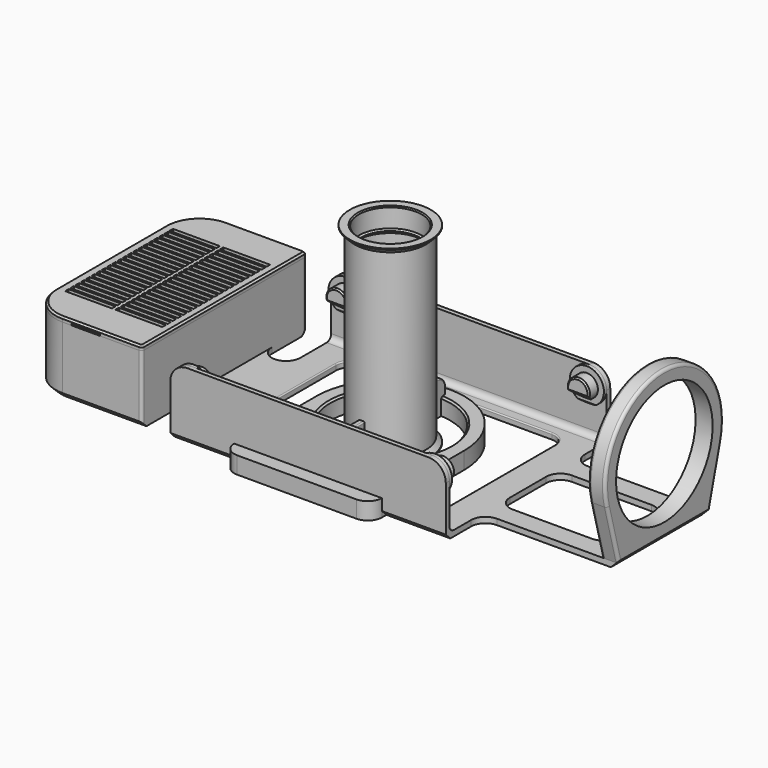
from build123d import *

# Parameters (mm, degrees)
PAD_DEPTH            = 2
PAD001_DEPTH         = 1.6
PAD002_DEPTH         = 1.6
FILLET_R             = 2
SKETCH004_R          = 6
PAD003_DEPTH         = 1.2
SKETCH006_R          = 6
PAD005_DEPTH         = 1.2
SKETCH005_R          = 3.9
PAD004_DEPTH         = 4
SKETCH007_R          = 3.9
PAD006_DEPTH         = 4
CHAMFER_SIZE         = 0.5
POCKET_DEPTH         = 98.501
POCKET_DEPTH_BACK    = 96.501
PAD007_DEPTH         = 24
SKETCH010_W          = 10
SKETCH010_H          = 0.5
SKETCH010_W_2        = 0.5
SKETCH010_H_2        = 10
POCKET001_DEPTH      = 2
SKETCH014_R          = 21.25
PAD010_DEPTH         = 6
FILLET007_R          = 1
POCKET002_DEPTH      = 36.201
POCKET002_DEPTH_BACK = 36.201
SKETCH013_W          = 2
SKETCH013_H          = 46.4
PAD009_DEPTH         = 10
FILLET002_R          = 4
FILLET003_R          = 0.4
CHAMFER003_SIZE      = 2
FILLET004_R          = 1
CHAMFER004_SIZE      = 0.4
PAD011_DEPTH         = 3
SKETCH020_W          = 0.8
SKETCH020_H          = 10.4
SKETCH020_W_2        = 10.4
SKETCH020_H_2        = 0.8
SKETCH020_H_3        = 10.565686
SKETCH020_W_3        = 10
PAD012_DEPTH         = 1.4
CHAMFER005_SIZE      = 0.69
PAD013_DEPTH         = 1.6
SKETCH023_W          = 1.4
SKETCH023_H          = 10.4
SKETCH023_W_2        = 10.4
SKETCH023_H_2        = 1.4
SKETCH023_W_3        = 10
POCKET004_DEPTH      = 0.6
FILLET006_R          = 1
CHAMFER006_SIZE      = 0.6
SKETCH022_W          = 16.5
SKETCH022_H          = 1.5
POCKET003_DEPTH      = 1.6
LINEARPATTERN_COUNT  = 21
LINEARPATTERN_PITCH  = 2.3
SKETCH025_R          = 21.15
PAD014_DEPTH         = 6
CHAMFER007_SIZE      = 0.6


with BuildPart() as base:
    # Sketch001 → Pad (new body)
    with BuildSketch(Plane.XY):
        with BuildLine():
            ThreePointArc((-58.5, 21), (-53.5, 16), (-48.5, 21))
            Line((-48.5, 21), (-48.5, 36.2))
            Line((-48.5, 36.2), (48.5, 36.2))
            Line((48.5, 36.2), (48.5, 25))
            ThreePointArc((48.5, 25), (49.964466, 21.464466), (53.5, 20))
            Line((53.5, 20), (96.5, 20))
            Line((96.5, 20), (96.5, -20))
            Line((96.5, -20), (53.5, -20))
            ThreePointArc((53.5, -20), (49.964466, -21.464466), (48.5, -25))
            Line((48.5, -25), (48.5, -36.2))
            Line((48.5, -36.2), (-48.5, -36.2))
            Line((-48.5, -36.2), (-48.5, -21))
            ThreePointArc((-48.5, -21), (-53.5, -16.000007), (-58.5, -21))
            Line((-58.5, -21), (-58.5, -36.2))
            Line((-58.5, -36.2), (-86.5, -36.2))
            ThreePointArc((-98.5, -24.2), (-94.985281, -32.685281), (-86.5, -36.2))
            Line((-98.5, -24.2), (-98.5, 24.2))
            ThreePointArc((-86.5, 36.2), (-94.985281, 32.685281), (-98.5, 24.2))
            Line((-86.5, 36.2), (-58.5, 36.2))
            Line((-58.5, 36.2), (-58.5, 21))
        make_face()
        with BuildLine():
            ThreePointArc((38.5, 24.2), (37.035534, 27.735534), (33.5, 29.2))
            Line((6, 29.2), (33.5, 29.2))
            ThreePointArc((6, 29.2), (2.464466, 27.735534), (1, 24.2))
            Line((1, -24.2), (1, 24.2))
            ThreePointArc((1, -24.2), (2.464466, -27.735534), (6, -29.2))
            Line((33.5, -29.2), (6, -29.2))
            ThreePointArc((33.5, -29.2), (37.035534, -27.735534), (38.5, -24.2))
            Line((38.5, 24.2), (38.5, -24.2))
        make_face(mode=Mode.SUBTRACT)
        with BuildLine():
            ThreePointArc((-1, 24.2), (-2.464466, 27.735534), (-6, 29.2))
            Line((-33.5, 29.2), (-6, 29.2))
            ThreePointArc((-33.5, 29.2), (-37.035534, 27.735534), (-38.5, 24.2))
            Line((-38.5, -24.2), (-38.5, 24.2))
            ThreePointArc((-38.5, -24.2), (-37.035534, -27.735534), (-33.5, -29.2))
            Line((-6, -29.2), (-33.5, -29.2))
            ThreePointArc((-6, -29.2), (-2.464466, -27.735534), (-1, -24.2))
            Line((-1, 24.2), (-1, -24.2))
        make_face(mode=Mode.SUBTRACT)
        with BuildLine():
            ThreePointArc((53.5, 13), (49.964466, 11.535534), (48.5, 8))
            Line((48.5, -8), (48.5, 8))
            ThreePointArc((48.5, -8), (49.964466, -11.535534), (53.5, -13))
            Line((81.5, -13), (53.5, -13))
            ThreePointArc((81.5, -13), (85.035534, -11.535534), (86.5, -8))
            Line((86.5, 8), (86.5, -8))
            ThreePointArc((86.5, 8), (85.035534, 11.535534), (81.5, 13))
            Line((53.5, 13), (81.5, 13))
        make_face(mode=Mode.SUBTRACT)
    extrude(amount=PAD_DEPTH)

    # Sketch002 (on DatumPlane) → Pad001 (join)
    with BuildSketch(Plane(origin=(-48.5, 36.2, 0), x_dir=(1, 0, 0), z_dir=(0, -1, 0))):
        with BuildLine():
            Line((0, 18), (0, 0))
            Line((0, 0), (97, 0))
            Line((97, 0), (97, 18))
            ThreePointArc((97, 18), (95.242641, 22.242641), (91, 24))
            Line((91, 24), (6, 24))
            ThreePointArc((6, 24), (1.757359, 22.242641), (0, 18))
        make_face()
    extrude(amount=PAD001_DEPTH)

    # Sketch003 (on DatumPlane) → Pad002 (join)
    with BuildSketch(Plane(origin=(-48.5, -36.2, 0), x_dir=(-1, 0, 0), z_dir=(0, 1, 0))):
        with BuildLine():
            Line((-97, 18), (-97, 0))
            Line((-97, 0), (0, 0))
            Line((0, 0), (0, 18))
            ThreePointArc((0, 18), (-1.757359, 22.242641), (-6, 24))
            Line((-6, 24), (-91, 24))
            ThreePointArc((-91, 24), (-95.242641, 22.242641), (-97, 18))
        make_face()
    extrude(amount=PAD002_DEPTH)

    # Fillet
    fillet_edges = [base.edges().sort_by_distance(p)[0] for p in [
        (0, -34.6, 2),
        (0, 34.6, 2),
    ]]
    fillet(fillet_edges, radius=FILLET_R)

    # Sketch004 (on DatumPlane) → Pad003 (join)
    with BuildSketch(Plane(origin=(-48.5, 34.6, 0), x_dir=(1, 0, 0), z_dir=(0, -1, 0))):
        with Locations((6, 18)):
            Circle(SKETCH004_R)
        with Locations((91, 18)):
            Circle(SKETCH004_R)
    extrude(amount=PAD003_DEPTH)

    # Sketch006 (on DatumPlane) → Pad005 (join)
    with BuildSketch(Plane(origin=(-48.5, -34.6, 0), x_dir=(-1, 0, 0), z_dir=(0, 1, 0))):
        with Locations((-91, 18)):
            Circle(SKETCH006_R)
        with Locations((-6, 18)):
            Circle(SKETCH006_R)
    extrude(amount=PAD005_DEPTH)

    # Sketch005 (on DatumPlane) → Pad004 (join)
    with BuildSketch(Plane(origin=(-48.5, 33.4, 0), x_dir=(1, 0, 0), z_dir=(0, -1, 0))):
        with Locations((6, 18)):
            Circle(SKETCH005_R)
        with Locations((91, 18)):
            Circle(SKETCH005_R)
    extrude(amount=PAD004_DEPTH)

    # Sketch007 (on DatumPlane) → Pad006 (join)
    with BuildSketch(Plane(origin=(-48.5, -33.4, 0), x_dir=(-1, 0, 0), z_dir=(0, 1, 0))):
        with Locations((-91, 18)):
            Circle(SKETCH007_R)
        with Locations((-6, 18)):
            Circle(SKETCH007_R)
    extrude(amount=PAD006_DEPTH)

    # Chamfer
    chamfer_edges = [base.edges().sort_by_distance(p)[0] for p in [
        (-46.4, 29.4, 18),
        (38.6, 29.4, 18),
        (46.4, -29.4, 18),
        (-38.6, -29.4, 18),
    ]]
    chamfer(chamfer_edges, length=CHAMFER_SIZE)

    # Sketch008 → Pocket (cut, two sides)
    with BuildSketch(Plane.YZ) as pocket_sk:
        Polygon((-33.4, 12.92301), (-34.5, 12), (-33.4, 12), align=None)
        Polygon((33.4, 12.92301), (33.4, 12), (34.5, 12), align=None)
        Polygon((-33.3, 14.1), (-24.004322, 14.1), (-24.004322, 21.9), align=None)
        Polygon((33.3, 14.1), (24.004322, 14.1), (24.004322, 21.9), align=None)
    extrude(amount=-POCKET_DEPTH, mode=Mode.SUBTRACT)
    extrude(pocket_sk.sketch, amount=POCKET_DEPTH_BACK, mode=Mode.SUBTRACT)

    # Sketch009 → Pad007 (join)
    with BuildSketch(Plane.XY):
        with BuildLine():
            ThreePointArc((-86.5, 36.2), (-94.985281, 32.685281), (-98.5, 24.2))
            Line((-98.5, -24.2), (-98.5, 24.2))
            ThreePointArc((-98.5, -24.2), (-94.985281, -32.685281), (-86.5, -36.2))
            Line((-58.5, -36.2), (-86.5, -36.2))
            Line((-58.5, 36.2), (-58.5, -36.2))
            Line((-86.5, 36.2), (-58.5, 36.2))
        make_face()
        with BuildLine():
            ThreePointArc((-86.5, 35), (-94.136753, 31.836753), (-97.3, 24.2))
            Line((-97.3, 24.2), (-97.3, -24.2))
            ThreePointArc((-97.3, -24.2), (-94.136753, -31.836753), (-86.5, -35))
            Line((-86.5, -35), (-59.7, -35))
            Line((-59.7, -35), (-59.7, 35))
            Line((-86.5, 35), (-59.7, 35))
        make_face(mode=Mode.SUBTRACT)
    extrude(amount=PAD007_DEPTH)

    # Sketch010 → Pocket001 (cut)
    with BuildSketch(Plane.XY.offset(23)):
        with Locations((-78.5, 35.25)):
            Rectangle(SKETCH010_W, SKETCH010_H)
        with Locations((-59.45, 0)):
            Rectangle(SKETCH010_W_2, SKETCH010_H_2)
        with Locations((-78.5, -35.25)):
            Rectangle(SKETCH010_W, SKETCH010_H)
        with Locations((-97.55, 0)):
            Rectangle(SKETCH010_W_2, SKETCH010_H_2)
    extrude(amount=-POCKET001_DEPTH, mode=Mode.SUBTRACT)

    # Sketch014 (on DatumPlane) → Pad010 (join)
    with BuildSketch(Plane(origin=(96.5, 0, 0), x_dir=(0, -1, 0), z_dir=(-1, 0, 0))):
        with BuildLine():
            Line((-20, 2), (20, 2))
            Line((20, 2), (25.130112, 21.330855))
            ThreePointArc((25.130112, 21.330855), (0, 54), (-25.130112, 21.330855))
            Line((-20, 2), (-25.130112, 21.330855))
        make_face()
        with Locations((0, 28)):
            Circle(SKETCH014_R, mode=Mode.SUBTRACT)
    extrude(amount=PAD010_DEPTH)

    # Fillet007
    fillet007_edges = [base.edges().sort_by_distance(p)[0] for p in [
        (96.5, 0, 54),
        (90.5, 0, 54),
        (96.5, 20, 1),
        (96.5, -20, 1),
    ]]
    fillet(fillet007_edges, radius=FILLET007_R)

    # Sketch015 → Pocket002 (cut, two sides)
    with BuildSketch(Plane.XZ) as pocket002_sk:
        Polygon((96.5, 0), (96.5, 2.828427), (93.671573, 0), align=None)
    extrude(amount=-POCKET002_DEPTH, mode=Mode.SUBTRACT)
    extrude(pocket002_sk.sketch, amount=POCKET002_DEPTH_BACK, mode=Mode.SUBTRACT)

    # Sketch013 → Pad009 (join)
    with BuildSketch(Plane.XY.offset(2)):
        Rectangle(SKETCH013_W, SKETCH013_H)
    extrude(amount=PAD009_DEPTH)

    # Fillet002
    fillet002_edges = [base.edges().sort_by_distance(p)[0] for p in [
        (0, -23.2, 2),
        (0, -23.2, 12),
        (0, 23.2, 12),
        (0, 23.2, 2),
    ]]
    fillet(fillet002_edges, radius=FILLET002_R)

    # Fillet003
    fillet003_edges = [base.edges().sort_by_distance(p)[0] for p in [
        (-1, 0, 12),
        (1, 0, 12),
    ]]
    fillet(fillet003_edges, radius=FILLET003_R)

    # Chamfer003
    chamfer003_edges = [base.edges().sort_by_distance(p)[0] for p in [
        (0, -36.2, 0),
        (0, 36.2, 0),
        (-98.5, 0, 0),
    ]]
    chamfer(chamfer003_edges, length=CHAMFER003_SIZE)

    # Fillet004
    fillet004_edges = [base.edges().sort_by_distance(p)[0] for p in [
        (-58.5, 36.2, 13),
        (-58.5, -36.2, 13),
        (-97.3, 0, 2),
        (-59.7, 0, 2),
    ]]
    fillet(fillet004_edges, radius=FILLET004_R)


with BuildPart() as roller:
    # Sketch018 → Revolution (revolve)
    with BuildSketch(Plane.XZ):
        Polygon((-11.05, 0), (-14.25, 0), (-14.25, 0.4), (-12.65, 2), (-12.65, 65.6), (-14.25, 67.2), (-14.25, 67.6), (-11.05, 67.6), (-11.05, 60.7), (-10.45, 60.19654), (-10.45, 59.99654), (-11.85, 58.821801), (-11.85, 8.778199), (-10.45, 7.60346), (-10.45, 7.40346), (-11.05, 6.9), align=None)
    revolve(axis=Axis((0, 0, 0), (0, 0, 1)))

    # Chamfer004
    chamfer004_edges = [roller.edges().sort_by_distance(p)[0] for p in [
        (11.05, 0, 67.6),
        (11.05, 0, 0),
    ]]
    chamfer(chamfer004_edges, length=CHAMFER004_SIZE)


with BuildPart() as lid:
    # Sketch019 → Pad011 (new body)
    with BuildSketch(Plane.XY):
        with BuildLine():
            ThreePointArc((-86.5, 34.8), (-93.995332, 31.695332), (-97.1, 24.2))
            Line((-97.1, 24.2), (-97.1, -24.2))
            ThreePointArc((-97.1, -24.2), (-93.995332, -31.695332), (-86.5, -34.8))
            Line((-86.5, -34.8), (-59.7, -34.8))
            Line((-59.7, 34.8), (-59.7, -34.8))
            Line((-86.5, 34.8), (-59.7, 34.8))
        make_face()
        with BuildLine():
            ThreePointArc((-86.5, 33.6), (-93.146804, 30.846804), (-95.9, 24.2))
            Line((-95.9, -24.2), (-95.9, 24.2))
            ThreePointArc((-95.9, -24.2), (-93.146804, -30.846804), (-86.5, -33.6))
            Line((-86.5, -33.6), (-60.9, -33.6))
            Line((-60.9, -33.6), (-60.9, 33.6))
            Line((-86.5, 33.6), (-60.9, 33.6))
        make_face(mode=Mode.SUBTRACT)
    extrude(amount=PAD011_DEPTH)

    # Sketch020 → Pad012 (join)
    with BuildSketch(Plane.XY.offset(1.9)):
        with Locations((-97.5, 0)):
            Rectangle(SKETCH020_W, SKETCH020_H)
        with Locations((-78.5, 35.2)):
            Rectangle(SKETCH020_W_2, SKETCH020_H_2)
        with Locations((-59.3, 0)):
            Rectangle(SKETCH020_W, SKETCH020_H_3)
        with Locations((-78.3, -35.2)):
            Rectangle(SKETCH020_W_3, SKETCH020_H_2)
    extrude(amount=-PAD012_DEPTH)

    # Chamfer005
    chamfer005_edges = [lid.edges().sort_by_distance(p)[0] for p in [
        (-97.9, 5.2, 1.2),
        (-97.9, -5.2, 1.2),
        (-97.9, 0, 1.9),
        (-97.9, 0, 0.5),
        (-83.3, -35.6, 1.2),
        (-73.3, -35.6, 1.2),
        (-78.3, -35.6, 1.9),
        (-78.3, -35.6, 0.5),
        (-58.9, -5.282843, 1.2),
        (-58.9, 5.282843, 1.2),
        (-58.9, 0, 1.9),
        (-58.9, 0, 0.5),
        (-73.3, 35.6, 1.2),
        (-83.7, 35.6, 1.2),
        (-78.5, 35.6, 1.9),
        (-78.5, 35.6, 0.5),
    ]]
    chamfer(chamfer005_edges, length=CHAMFER005_SIZE)

    # Sketch021 → Pad013 (join)
    with BuildSketch(Plane.XY.offset(3)):
        with BuildLine():
            ThreePointArc((-86.5, 36.2), (-94.985281, 32.685281), (-98.5, 24.2))
            Line((-98.5, 24.2), (-98.5, -24.2))
            ThreePointArc((-98.5, -24.2), (-94.985281, -32.685281), (-86.5, -36.2))
            Line((-86.5, -36.2), (-58.5, -36.2))
            Line((-58.5, -36.2), (-58.5, 36.2))
            Line((-86.5, 36.2), (-58.5, 36.2))
        make_face()
    extrude(amount=PAD013_DEPTH)

    # Sketch023 → Pocket004 (cut)
    with BuildSketch(Plane.XY.offset(3)):
        with Locations((-97.8, 0)):
            Rectangle(SKETCH023_W, SKETCH023_H)
        with Locations((-78.5, 35.5)):
            Rectangle(SKETCH023_W_2, SKETCH023_H_2)
        with Locations((-78.3, -35.5)):
            Rectangle(SKETCH023_W_3, SKETCH023_H_2)
    extrude(amount=POCKET004_DEPTH, mode=Mode.SUBTRACT)

    # Fillet006
    fillet006_edges = [lid.edges().sort_by_distance(p)[0] for p in [
        (-58.5, -36.2, 3.8),
        (-58.5, 36.2, 3.8),
        (-59.7, -34.8, 1.5),
        (-59.7, 34.8, 1.5),
    ]]
    fillet(fillet006_edges, radius=FILLET006_R)

    # Chamfer006
    chamfer006_edges = [lid.edges().sort_by_distance(p)[0] for p in [
        (-58.5, 0, 4.6),
    ]]
    chamfer(chamfer006_edges, length=CHAMFER006_SIZE)

    # Sketch022 → Pocket003 (cut)
    with BuildSketch(Plane.XY.offset(4.6)):
        with Locations((-87.25, 23)):
            Rectangle(SKETCH022_W, SKETCH022_H)
        with Locations((-69.55, 23)):
            Rectangle(SKETCH022_W, SKETCH022_H)
    pocket003 = extrude(amount=-POCKET003_DEPTH, mode=Mode.SUBTRACT)

    # LinearPattern: Pocket003 ×21
    with Locations(*[(0, -i * LINEARPATTERN_PITCH, 0) for i in range(1, LINEARPATTERN_COUNT)]):
        add(pocket003, mode=Mode.SUBTRACT)


with BuildPart() as lid_1:
    # Body002 placement: moved
    add(lid.part.moved(Location((0, 0, 21))))


with BuildPart() as obj1:
    # Sketch025 → Pad014 (new body)
    with BuildSketch(Plane.XY):
        with BuildLine():
            ThreePointArc((26, 0), (0, 26), (-26, 0))
            Line((-26, 0), (-26, -36.15))
            ThreePointArc((-26, -36.15), (-24.535534, -39.685534), (-21, -41.15))
            Line((21, -41.15), (-21, -41.15))
            ThreePointArc((21, -41.15), (24.535534, -39.685534), (26, -36.15))
            Line((26, 0), (26, -36.15))
        make_face()
        Circle(SKETCH025_R, mode=Mode.SUBTRACT)
    extrude(amount=PAD014_DEPTH)

    # Chamfer007
    chamfer007_edges = [obj1.edges().sort_by_distance(p)[0] for p in [
        (-21.15, 0, 6),
    ]]
    chamfer(chamfer007_edges, length=CHAMFER007_SIZE)


solid = Compound([base.part, roller.part, lid_1.part, obj1.part])
